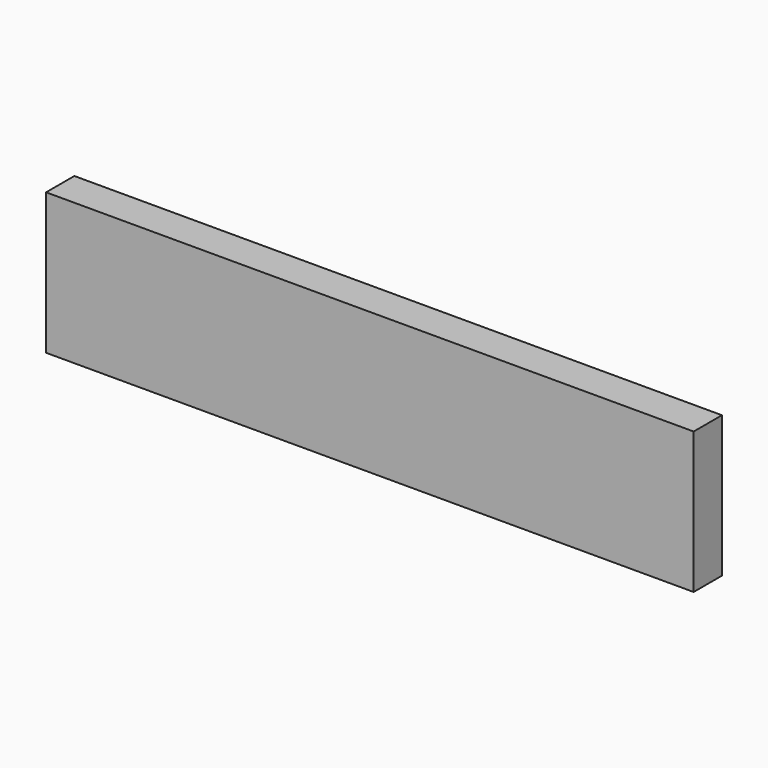
from build123d import *

# Parameters (mm, degrees)
F0_W     = 275
F0_H     = 60
F1_DEPTH = 7.5
F2_R     = 1.5
F3_DEPTH = 137.5


with BuildPart() as f1:
    # F0 (on Front) → F1 (new body, symmetric)
    with BuildSketch(Plane.XZ):
        Rectangle(F0_W, F0_H)
    extrude(amount=F1_DEPTH, both=True)

    # F2 (on face) → F3 (cut)
    with BuildSketch(Plane(origin=(-137.5, 0, 0), x_dir=(0, -1, 0), z_dir=(-1, 0, 0))):
        Circle(F2_R)
    extrude(amount=-F3_DEPTH, mode=Mode.SUBTRACT)


solid = f1.part
